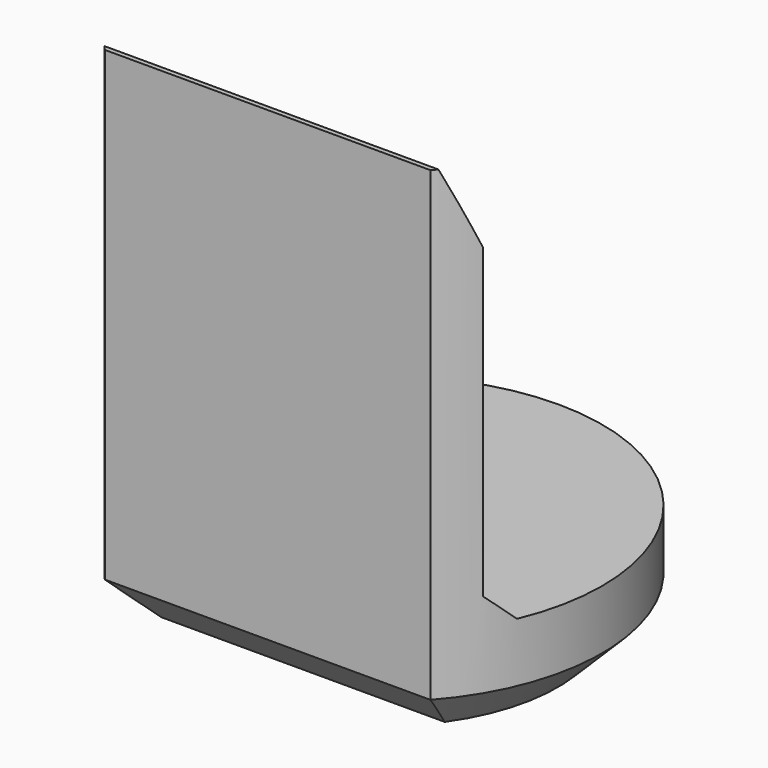
from build123d import *

# Parameters (mm, degrees)
PAD007_DEPTH         = 6.9
POCKET005_DEPTH      = 2.951
POCKET005_DEPTH_BACK = 2.951
CHAMFER008_SIZE      = 0.6


with BuildPart() as part:
    # Sketch018 → Pad007 (new body)
    with BuildSketch(Plane.XY):
        with BuildLine():
            ThreePointArc((2.2, -1.9653244007), (0, 2.95), (-2.2, -1.9653244007))
            Line((-2.2, -1.9653244007), (2.2, -1.9653244007))
        make_face()
    extrude(amount=PAD007_DEPTH)

    # Sketch019 → Pocket005 (cut, two sides)
    with BuildSketch(Plane.YZ) as pocket005_sk:
        Polygon((-1.9, 6.9), (-1.5, 5.9), (-1.5, 1.75), (-1.15, 1.4), (5, 1.4), (5, 6.9), align=None)
    extrude(amount=-POCKET005_DEPTH, mode=Mode.SUBTRACT)
    extrude(pocket005_sk.sketch, amount=POCKET005_DEPTH_BACK, mode=Mode.SUBTRACT)

    # Chamfer008
    chamfer008_edges = [part.edges().sort_by_distance(p)[0] for p in [
        (0, 2.95, 0),
        (0, -1.965324, 0),
    ]]
    chamfer(chamfer008_edges, length=CHAMFER008_SIZE)


with BuildPart() as part_1:
    # Body054 placement: moved
    add(part.part.moved(Location((0, 24, 0))))


solid = part_1.part
